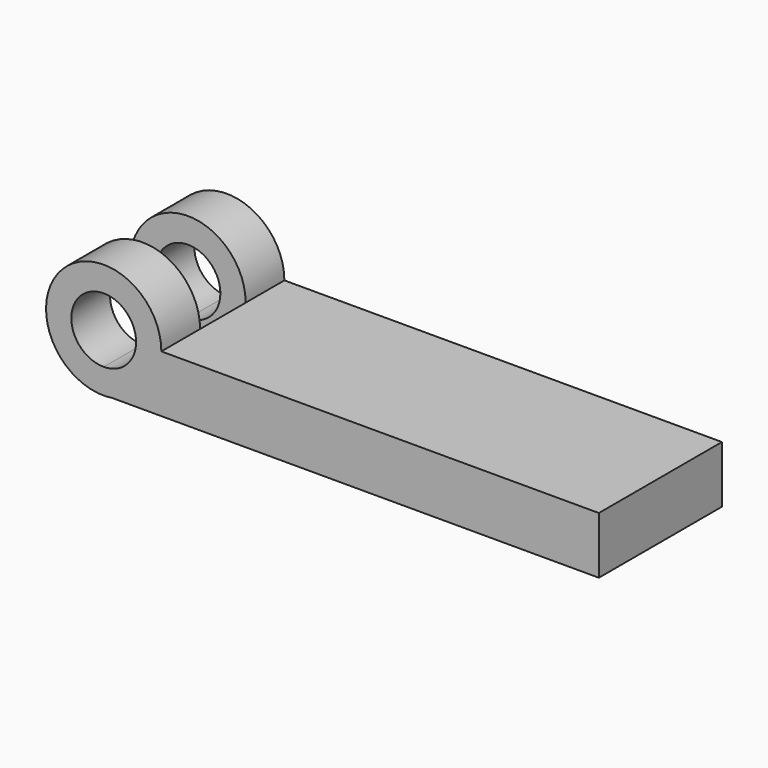
from build123d import *

# Parameters (mm, degrees)
F1_DEPTH      = 60.325
F2_W          = 45.212
F2_H          = 22.3266
F3_DEPTH      = 22.607
F3_DEPTH_BACK = 22.607


with BuildPart() as f1:
    # F0 (on Front) → F1 (new body)
    with BuildSketch(Plane.XZ):
        with BuildLine():
            Line((22.606, 0), (12.7, 0))
            ThreePointArc((12.7, 0), (8.9802561211, -8.9802561211), (0, -12.7))
            Line((0, -12.7), (0, -22.352))
            Line((0, -22.352), (3.3792502127, -22.352))
            ThreePointArc((3.3792502127, -22.352), (17.1380069773, -14.7417757698), (22.606, 0))
        make_face()
        with BuildLine():
            ThreePointArc((0, -12.7), (-8.9802561211, 8.9802561211), (12.7, 0))
            Line((12.7, 0), (22.606, 0))
            ThreePointArc((22.606, 0), (-17.1380069773, 14.7417757698), (3.3792502127, -22.352))
            Line((3.3792502127, -22.352), (0, -22.352))
            Line((0, -22.352), (0, -12.7))
        make_face()
        with BuildLine():
            Line((194.2084, 0), (22.606, 0))
            ThreePointArc((22.606, 0), (17.1380069773, -14.7417757698), (3.3792502127, -22.352))
            Line((3.3792502127, -22.352), (194.2084, -22.352))
            Line((194.2084, -22.352), (194.2084, 0))
        make_face()
    extrude(amount=F1_DEPTH)

    # F2 (on Top) → F3 (cut, two sides)
    with BuildSketch(Plane.XY) as f3_sk:
        with Locations((0, -30.1625)):
            Rectangle(F2_W, F2_H)
    extrude(amount=-F3_DEPTH, mode=Mode.SUBTRACT)
    extrude(f3_sk.sketch, amount=F3_DEPTH_BACK, mode=Mode.SUBTRACT)


solid = f1.part
